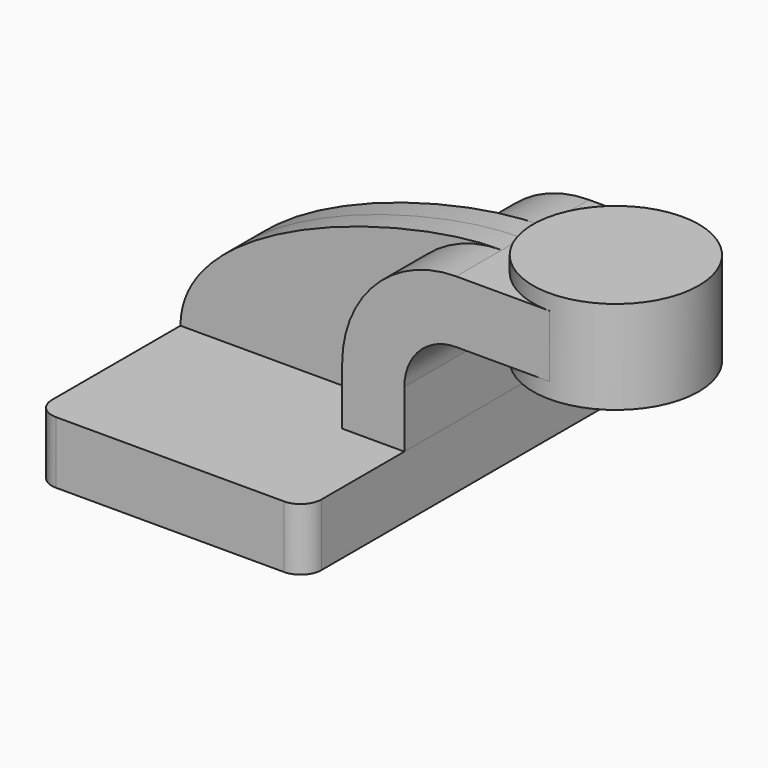
from build123d import *

# Parameters (mm, degrees)
F1_DEPTH = 63.5
F0_W     = 25.4
F0_H     = 19.05
F2_DEPTH = 25.4
F3_DEPTH = 7.9375
F5_R     = 6.35


with BuildPart() as f1:
    # F0 (on Front) → F1 (new body, symmetric)
    with BuildSketch(Plane.XZ):
        Polygon((22.225, 9.525), (-41.275, 9.525), (-41.275, -9.525), (41.275, -9.525), (41.275, 9.525), align=None)
    extrude(amount=F1_DEPTH, both=True)

    # F5
    f5_edges = [f1.edges().sort_by_distance(p)[0] for p in [
        (41.275, -63.5, 0),
        (-41.275, -63.5, 0),
        (-41.275, 63.5, 0),
        (41.275, 63.5, 0),
    ]]
    fillet(f5_edges, radius=F5_R)


with BuildPart() as f2:
    # F0 (on Front) → F2 (new body, symmetric)
    with BuildSketch(Plane.XZ):
        with BuildLine():
            Line((22.225, 27.0002), (22.225, 9.525))
            Line((22.225, 9.525), (41.275, 9.525))
            Line((41.275, 9.525), (41.275, 27.0002))
            ThreePointArc((41.275, 27.0002), (45.9246798487, 38.2255201513), (57.15, 42.8752))
            Line((57.15, 42.8752), (60.325, 42.8752))
            Line((60.325, 42.8752), (60.325, 61.9252))
            Line((60.325, 61.9252), (57.15, 61.9252))
            ThreePointArc((57.15, 61.9252), (32.4542956671, 51.6959043329), (22.225, 27.0002))
        make_face()
        with Locations((73.025, 52.4002)):
            Rectangle(F0_W, F0_H)
    extrude(amount=F2_DEPTH, both=True)


with BuildPart() as f3:
    # F0 (on Front) → F3 (new body, symmetric)
    with BuildSketch(Plane.XZ):
        with BuildLine():
            add(Edge.make_bspline(
                [(-41.275, 9.525), (-41.1764532328, 41.511323303), (27.8992466629, 62.4158084393), (57.15, 61.9252)],
                knots=[0, 0, 0, 0, 111.5045361635, 111.5045361635, 111.5045361635, 111.5045361635], degree=3))
            Line((-41.275, 9.525), (22.225, 9.525))
            Line((22.225, 9.525), (22.225, 27.0002))
            ThreePointArc((22.225, 27.0002), (32.4542956671, 51.6959043329), (57.15, 61.9252))
        make_face()
    extrude(amount=F3_DEPTH, both=True)


with BuildPart() as f4:
    # F0 (on Front) → F4 (revolve)
    with BuildSketch(Plane.XZ):
        Polygon((85.725, 66.675), (85.725, 61.9252), (85.725, 42.8752), (85.725, 38.1), (111.125, 38.1), (111.125, 66.675), align=None)
    revolve(axis=Axis((85.725, 0, 52.3875), (0, 0, 1)))


solid = Compound([f1.part, f2.part, f3.part, f4.part])
